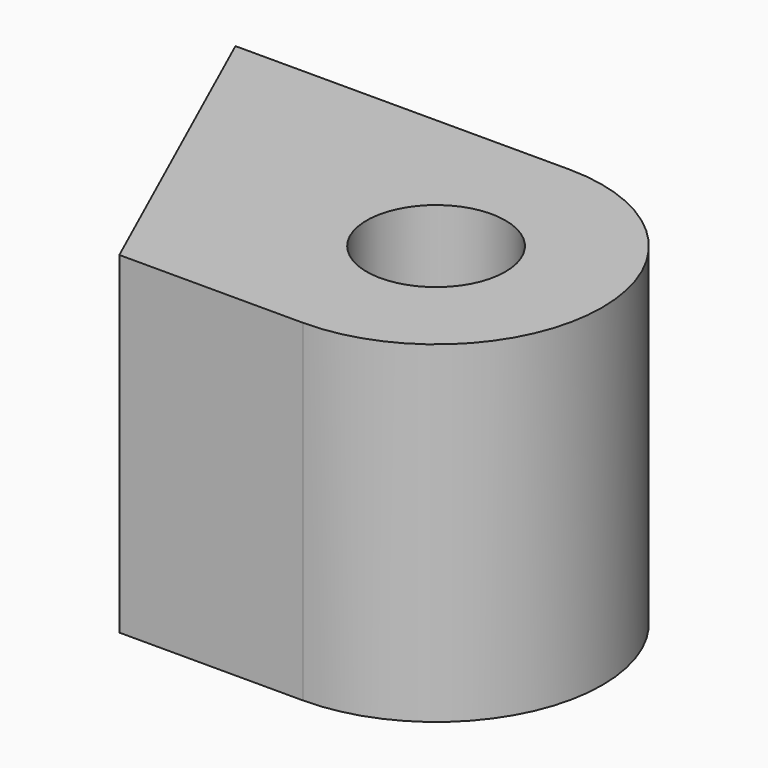
from build123d import *

# Parameters (mm, degrees)
F0_R     = 5.304386
F1_DEPTH = 25.4
F3_DEPTH = 25.4


with BuildPart() as f1:
    # F0 (on Top) → F1 (new body)
    with BuildSketch(Plane.XY):
        with BuildLine():
            Line((-38.1, -12.7), (0, -12.7))
            ThreePointArc((0, -12.7), (12.7, 0), (0, 12.7))
            Line((0, 12.7), (-25.488655, 12.7))
            Line((-25.488655, 12.7), (-38.1, -12.7))
        make_face()
        Circle(F0_R, mode=Mode.SUBTRACT)
    extrude(amount=F1_DEPTH)

    # F2 (on face) → F3 (cut)
    with BuildSketch(Plane.XY.offset(25.4)):
        Polygon((-14.039121, -12.7), (-25.488655, 12.7), (-38.1, -12.7), align=None)
    extrude(amount=-F3_DEPTH, mode=Mode.SUBTRACT)


solid = f1.part
